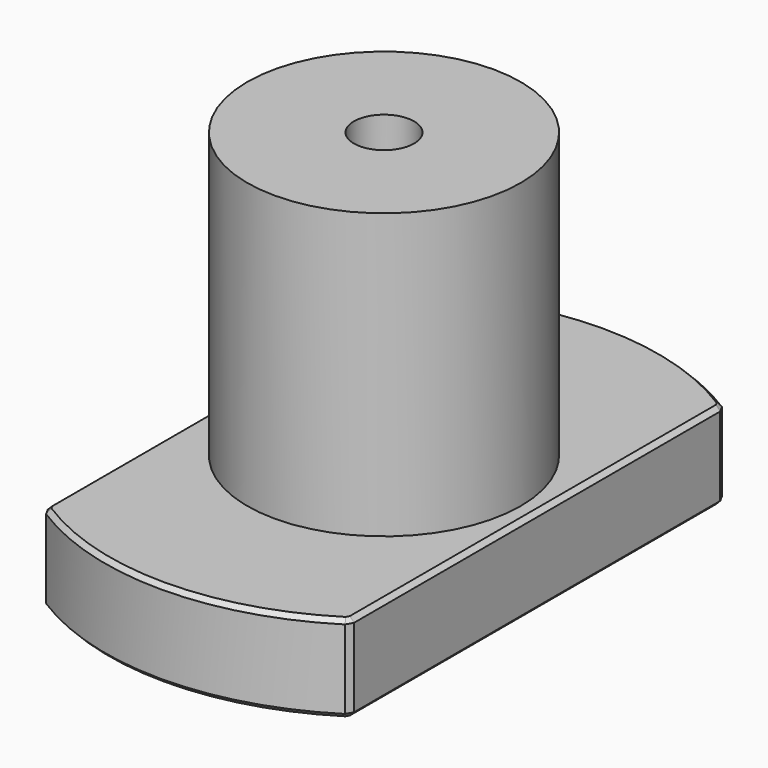
from build123d import *

# Parameters (mm, degrees)
SKETCH151_W     = 65
SKETCH151_H     = 65
SKETCH151_W_2   = 53.065996
SKETCH151_H_2   = 28
POCKET099_DEPTH = 34.001
POCKET100_DEPTH = 22.001
POCKET_DEPTH    = 0.2
CHAMFER_SIZE    = 0.4


with BuildPart() as part:
    # Sketch103 → Revolution002 (revolve)
    with BuildSketch(Plane.YZ):
        Polygon((2.75, 0), (12.5, 0), (12.5, -26), (25.5, -26), (25.5, -34), (2.75, -34), align=None)
    revolve(axis=Axis((0, 0, 0), (0, 0, 1)))

    # Sketch151 (on Face5 of Revolution002) → Pocket099 (cut, through all)
    with BuildSketch(Plane.YX.offset(34)):
        Rectangle(SKETCH151_W, SKETCH151_H)
        Rectangle(SKETCH151_W_2, SKETCH151_H_2, mode=Mode.SUBTRACT)
    extrude(amount=-POCKET099_DEPTH, mode=Mode.SUBTRACT)

    # Sketch142 → Pocket100 (cut, through all)
    with BuildSketch(Plane.XY.offset(-12)):
        Polygon((4.2, 2.424871), (0, 4.849742), (-4.2, 2.424871), (-4.2, -2.424871), (0, -4.849742), (4.2, -2.424871), align=None)
    extrude(amount=-POCKET100_DEPTH, mode=Mode.SUBTRACT)

    # Sketch (on Face4 of Pocket100) → Pocket (cut)
    with BuildSketch(Plane.YX.offset(12)):
        Polygon((0.750555, 4.2), (4.012584, -1.45), (3.262029, -2.75), (-3.262029, -2.75), (-4.012584, -1.45), (-0.750555, 4.2), align=None)
    extrude(amount=-POCKET_DEPTH, mode=Mode.SUBTRACT)

    # Chamfer
    chamfer_edges = [part.edges().sort_by_distance(p)[0] for p in [
        (-7.306329, 24.430873, -34),
        (-14, 0, -34),
        (7.306329, 24.430873, -34),
        (0, -25.5, -34),
        (14, 0, -34),
        (2.1, 3.637307, -34),
        (4.2, 0, -34),
        (2.1, -3.637307, -34),
        (-2.1, -3.637307, -34),
        (-4.2, 0, -34),
        (-2.1, 3.637307, -34),
        (0, -25.5, -26),
        (14, 0, -26),
        (7.306329, 24.430873, -26),
        (-7.306329, 24.430873, -26),
        (-14, 0, -26),
        (14, -21.313141, -30),
        (14, 21.313141, -30),
        (-14, 21.313141, -30),
        (-14, -21.313141, -30),
    ]]
    chamfer(chamfer_edges, length=CHAMFER_SIZE)


with BuildPart() as part_1:
    # Body022019 placement: moved
    add(part.part.moved(Location((0, 92, -72))))


solid = part_1.part
